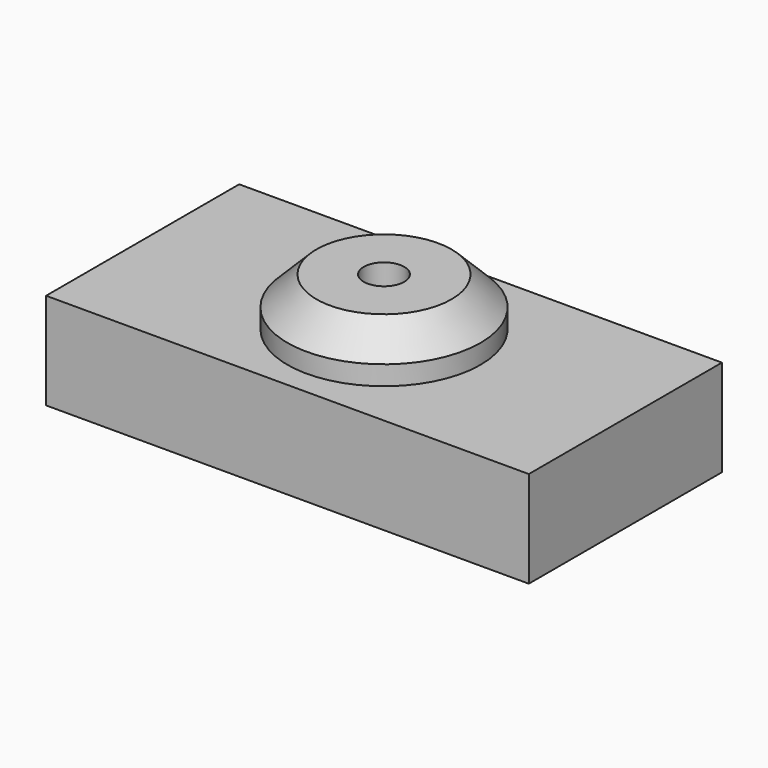
from build123d import *

# Parameters (mm, degrees)
SKETCH_W      = 50
SKETCH_H      = 25
PAD_DEPTH     = 10
SKETCH001_R   = 10
PAD001_DEPTH  = 15
SKETCH002_R   = 2.1
POCKET_DEPTH  = 10
CHAMFER_SIZE2 = 3
CHAMFER_SIZE  = 3


with BuildPart() as part:
    # Sketch → Pad (new body)
    with BuildSketch(Plane.XY):
        with Locations((-25, 12.5)):
            Rectangle(SKETCH_W, SKETCH_H)
    extrude(amount=PAD_DEPTH)

    # Sketch001 → Pad001 (join)
    with BuildSketch(Plane.XY):
        with Locations((-25, 12.5)):
            Circle(SKETCH001_R)
    extrude(amount=PAD001_DEPTH)

    # Sketch002 (on Face9 of Pad001) → Pocket (cut)
    with BuildSketch(Plane.XY.offset(15)):
        with Locations((-25, 12.5)):
            Circle(SKETCH002_R)
    extrude(amount=-POCKET_DEPTH, mode=Mode.SUBTRACT)

    # Chamfer
    chamfer_edges = [part.edges().sort_by_distance(p)[0] for p in [
        (-35, 12.5, 15),
    ]]
    chamfer_side = part.faces().sort_by_distance((-35, 12.5, 12.5))[0]
    chamfer(chamfer_edges, length=CHAMFER_SIZE, length2=CHAMFER_SIZE2, reference=chamfer_side)


solid = part.part
